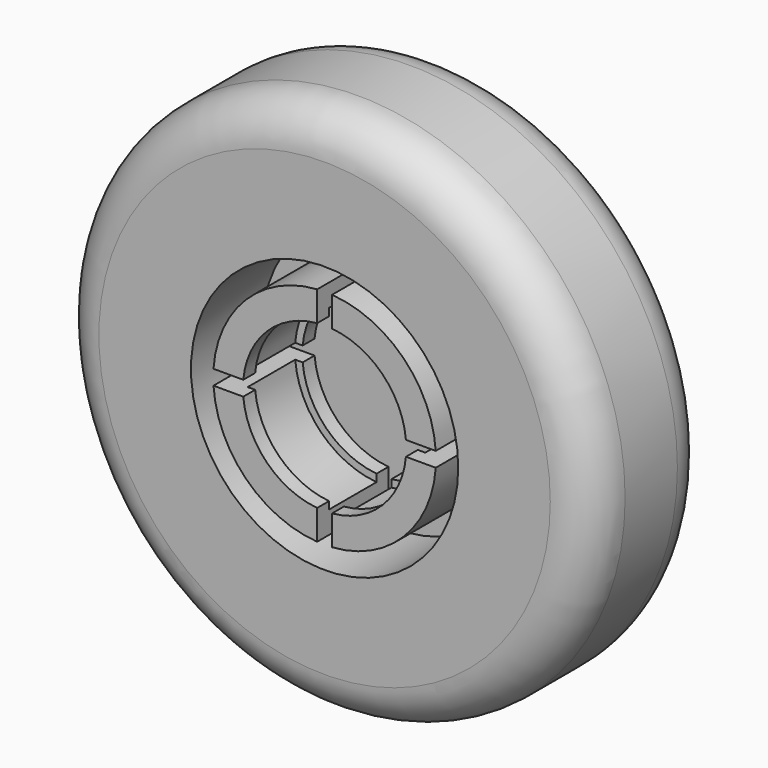
from build123d import *

# Parameters (mm, degrees)
F0_R      = 11.43
F1_DEPTH  = 6.35
F2_R      = 3.4925
F3_DEPTH  = 3.81
F4_R      = 5.715
F4_R_2    = 4.7625
F5_DEPTH  = 3.81
F7_DEPTH  = 3.81
F8_R      = 3.81
F9_DEPTH  = 3.175
F10_R     = 1.778
F11_DEPTH = 0.635


with BuildPart() as f1:
    # F0 (on Front) → F1 (new body)
    with BuildSketch(Plane.XZ):
        Circle(F0_R)
    extrude(amount=F1_DEPTH)

    # F2 (on face) → F3 (cut)
    with BuildSketch(Plane.XZ.offset(6.35)):
        Circle(F2_R)
    extrude(amount=-F3_DEPTH, mode=Mode.SUBTRACT)

    # F4 (on face) → F5 (cut)
    with BuildSketch(Plane.XZ.offset(6.35)):
        Circle(F4_R)
        Circle(F4_R_2, mode=Mode.SUBTRACT)
    extrude(amount=-F5_DEPTH, mode=Mode.SUBTRACT)

    # F6 (on face) → F7 (cut)
    with BuildSketch(Plane.XZ.offset(6.35)):
        with BuildLine():
            Line((0.3175, 3.4780382402), (0.3175, 4.4336462139))
            ThreePointArc((0.3175, 4.4336462139), (0, 4.445), (-0.3175, 4.4336462139))
            Line((-0.3175, 4.4336462139), (-0.3175, 3.4780382402))
            ThreePointArc((-0.3175, 3.4780382402), (0, 3.4925), (0.3175, 3.4780382402))
        make_face()
        with BuildLine():
            Line((-3.4780382402, 0.3175), (-4.4336462139, 0.3175))
            ThreePointArc((-4.4336462139, 0.3175), (-4.445, 0), (-4.4336462139, -0.3175))
            Line((-4.4336462139, -0.3175), (-3.4780382402, -0.3175))
            ThreePointArc((-3.4780382402, -0.3175), (-3.4925, 0), (-3.4780382402, 0.3175))
        make_face()
        with BuildLine():
            ThreePointArc((4.4336462139, -0.3175), (4.4421606466, -0.1588514703), (4.445, 0))
            ThreePointArc((4.445, 0), (4.4421606466, 0.1588514703), (4.4336462139, 0.3175))
            Line((4.4336462139, 0.3175), (3.4780382402, 0.3175))
            ThreePointArc((3.4780382402, 0.3175), (3.4888826867, 0.1589145938), (3.4925, 0))
            ThreePointArc((3.4925, 0), (3.4888826867, -0.1589145938), (3.4780382402, -0.3175))
            Line((3.4780382402, -0.3175), (4.4336462139, -0.3175))
        make_face()
        with BuildLine():
            ThreePointArc((-0.3175, -4.4336462139), (0, -4.445), (0.3175, -4.4336462139))
            Line((0.3175, -4.4336462139), (0.3175, -3.4780382402))
            ThreePointArc((0.3175, -3.4780382402), (0, -3.4925), (-0.3175, -3.4780382402))
            Line((-0.3175, -3.4780382402), (-0.3175, -4.4336462139))
        make_face()
        with BuildLine():
            ThreePointArc((-0.3175, 4.4336462139), (0, 4.445), (0.3175, 4.4336462139))
            Line((0.3175, 4.4336462139), (0.3175, 4.7519048812))
            ThreePointArc((0.3175, 4.7519048812), (0.1588383664, 4.7598504833), (0, 4.7625))
            ThreePointArc((0, 4.7625), (-0.1588383664, 4.7598504833), (-0.3175, 4.7519048812))
            Line((-0.3175, 4.7519048812), (-0.3175, 4.4336462139))
        make_face()
        with BuildLine():
            ThreePointArc((-4.4336462139, -0.3175), (-4.445, 0), (-4.4336462139, 0.3175))
            Line((-4.4336462139, 0.3175), (-4.7519048812, 0.3175))
            ThreePointArc((-4.7519048812, 0.3175), (-4.7598504833, 0.1588383664), (-4.7625, 0))
            ThreePointArc((-4.7625, 0), (-4.7598504833, -0.1588383664), (-4.7519048812, -0.3175))
            Line((-4.7519048812, -0.3175), (-4.4336462139, -0.3175))
        make_face()
        with BuildLine():
            ThreePointArc((4.4336462139, 0.3175), (4.4421606466, 0.1588514703), (4.445, 0))
            ThreePointArc((4.445, 0), (4.4421606466, -0.1588514703), (4.4336462139, -0.3175))
            Line((4.4336462139, -0.3175), (4.7519048812, -0.3175))
            ThreePointArc((4.7519048812, -0.3175), (4.7598504833, -0.1588383664), (4.7625, 0))
            ThreePointArc((4.7625, 0), (4.7598504833, 0.1588383664), (4.7519048812, 0.3175))
            Line((4.7519048812, 0.3175), (4.4336462139, 0.3175))
        make_face()
        with BuildLine():
            Line((0.3175, -4.7519048812), (0.3175, -4.4336462139))
            ThreePointArc((0.3175, -4.4336462139), (0, -4.445), (-0.3175, -4.4336462139))
            Line((-0.3175, -4.4336462139), (-0.3175, -4.7519048812))
            ThreePointArc((-0.3175, -4.7519048812), (-0.1588383664, -4.7598504833), (0, -4.7625))
            ThreePointArc((0, -4.7625), (0.1588383664, -4.7598504833), (0.3175, -4.7519048812))
        make_face()
    extrude(amount=-F7_DEPTH, mode=Mode.SUBTRACT)

    # F8 (on face) → F9 (cut)
    with BuildSketch(Plane.XZ.offset(2.54)):
        Circle(F8_R)
    extrude(amount=F9_DEPTH, mode=Mode.SUBTRACT)

    # F10
    f10_edges = [f1.edges().sort_by_distance(p)[0] for p in [
        (-11.43, -6.35, 0),
        (-11.43, 0, 0),
    ]]
    fillet(f10_edges, radius=F10_R)

    # F8 (on face) → F11 (join)
    with BuildSketch(Plane.XZ.offset(2.54)):
        with BuildLine():
            ThreePointArc((0.3175, -3.7967477859), (2.6940768363, -2.6940768363), (3.7967477859, -0.3175))
            Line((3.7967477859, -0.3175), (3.4780382402, -0.3175))
            ThreePointArc((3.4780382402, -0.3175), (2.4695704333, -2.4695704333), (0.3175, -3.4780382402))
            Line((0.3175, -3.4780382402), (0.3175, -3.7967477859))
        make_face()
        with BuildLine():
            Line((3.4780382402, 0.3175), (3.7967477859, 0.3175))
            ThreePointArc((3.7967477859, 0.3175), (2.6940768363, 2.6940768363), (0.3175, 3.7967477859))
            Line((0.3175, 3.7967477859), (0.3175, 3.4780382402))
            ThreePointArc((0.3175, 3.4780382402), (2.4695704333, 2.4695704333), (3.4780382402, 0.3175))
        make_face()
        with BuildLine():
            Line((-0.3175, 3.4780382402), (-0.3175, 3.7967477859))
            ThreePointArc((-0.3175, 3.7967477859), (-2.6940768363, 2.6940768363), (-3.7967477859, 0.3175))
            Line((-3.7967477859, 0.3175), (-3.4780382402, 0.3175))
            ThreePointArc((-3.4780382402, 0.3175), (-2.4695704333, 2.4695704333), (-0.3175, 3.4780382402))
        make_face()
        with BuildLine():
            ThreePointArc((-3.7967477859, -0.3175), (-2.6940768363, -2.6940768363), (-0.3175, -3.7967477859))
            Line((-0.3175, -3.7967477859), (-0.3175, -3.4780382402))
            ThreePointArc((-0.3175, -3.4780382402), (-2.4695704333, -2.4695704333), (-3.4780382402, -0.3175))
            Line((-3.4780382402, -0.3175), (-3.7967477859, -0.3175))
        make_face()
    extrude(amount=F11_DEPTH)


solid = f1.part
